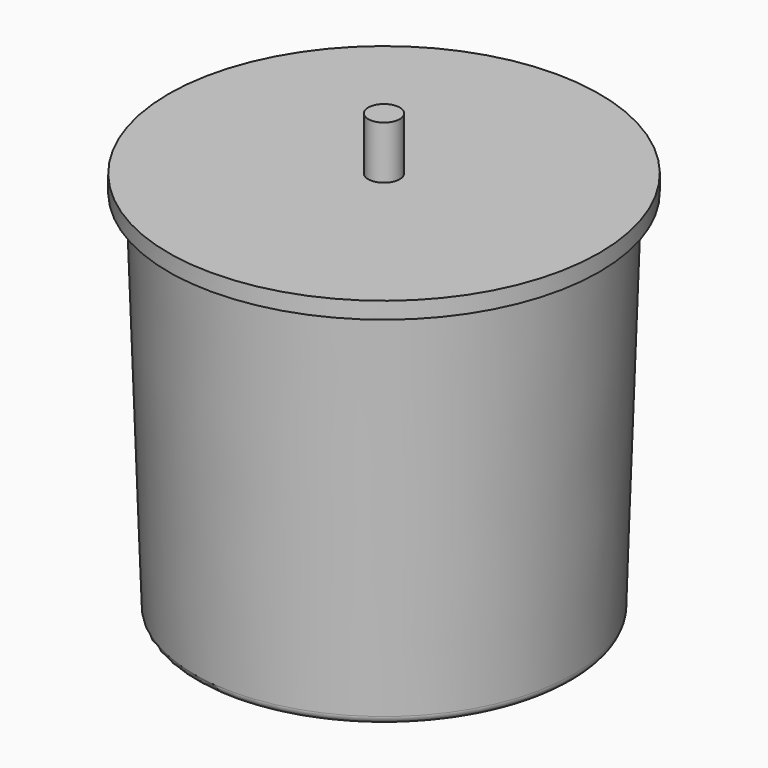
from build123d import *

# Parameters (mm, degrees)
F0_W   = 3.81
F0_H   = 10.16
F0_W_2 = 6.35
F0_H_2 = 21.3337882066
F0_H_3 = 3.81


with BuildPart() as f1:
    # F0 (on Front) → F1 (revolve)
    with BuildSketch(Plane.XZ):
        with BuildLine():
            Line((0, -76.2), (0, -72.898))
            Line((0, -72.898), (-6.35, -72.898))
            Line((-6.35, -72.898), (-10.16, -72.898))
            Line((-10.16, -72.898), (-73.0062327315, -72.898))
            Line((-73.0062327315, -72.898), (-77.9761660648, 76.2))
            Line((-77.9761660648, 76.2), (-81.28, 76.2))
            Line((-81.28, 76.2), (-76.3063998144, -73.0080055694))
            ThreePointArc((-76.3063998144, -73.0080055694), (-75.301877043, -75.2714407924), (-73.0062327315, -76.2))
            Line((-73.0062327315, -76.2), (0, -76.2))
        make_face()
        with Locations((-8.255, -67.818)):
            Rectangle(F0_W, F0_H)
    revolve(axis=Axis((0, 0, 0), (0, 0, -1)))


with BuildPart() as f2:
    # F0 (on Front) → F2 (revolve)
    with BuildSketch(Plane.XZ):
        Polygon((-77.9761660648, 76.2), (-6.35, 76.2), (-6.35, 80.01), (-86.8177935481, 80.01), (-86.8177935481, 73.2827782631), (-81.28, 73.2827782631), (-81.28, 76.2), align=None)
    revolve(axis=Axis((0, 0, 0), (0, 0, -1)))


with BuildPart() as f3:
    # F0 (on Front) → F3 (revolve)
    with BuildSketch(Plane.XZ):
        with Locations((-3.175, 90.6768941033)):
            Rectangle(F0_W_2, F0_H_2)
        with Locations((-3.175, 78.105)):
            Rectangle(F0_W_2, F0_H_3)
        Polygon((0, -72.898), (0, 76.2), (-6.35, 76.2), (-6.35, -62.738), (-6.35, -72.898), align=None)
    revolve(axis=Axis((0, 0, 14.2228941033), (0, 0, 1)))


solid = Compound([f1.part, f2.part, f3.part])
